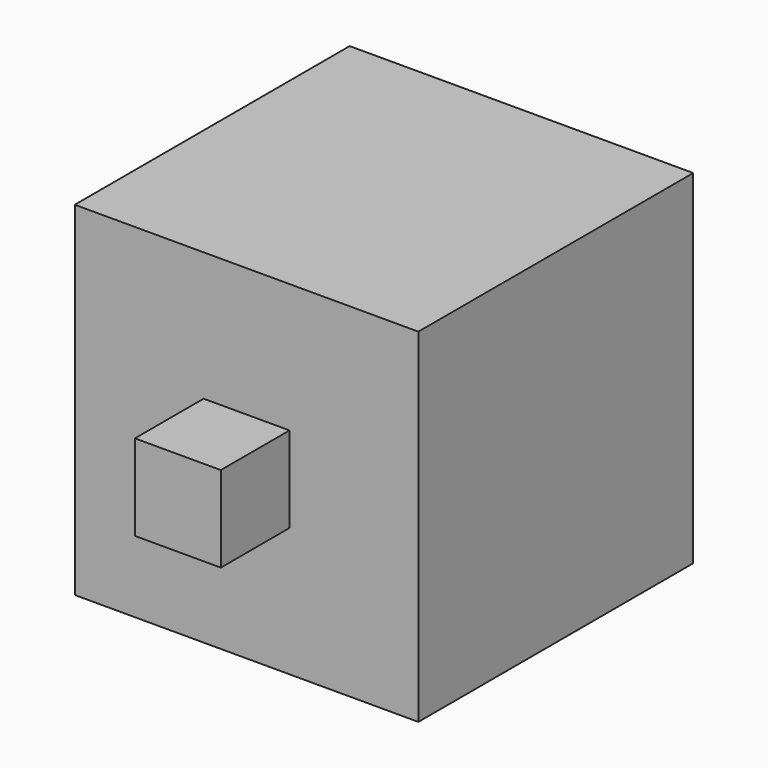
from build123d import *

# Parameters (mm, degrees)
F0_W     = 40
F0_H     = 40
F1_DEPTH = 20
F2_W     = 10
F2_H     = 10
F3_DEPTH = 10
F4_W     = 10
F4_H     = 10
F5_DEPTH = 10


with BuildPart() as f1:
    # F0 (on Front) → F1 (new body, symmetric)
    with BuildSketch(Plane.XZ):
        Rectangle(F0_W, F0_H)
    extrude(amount=F1_DEPTH, both=True)

    # F2 (on face) → F3 (join)
    with BuildSketch(Plane.XZ.offset(20)):
        Rectangle(F2_W, F2_H)
    extrude(amount=F3_DEPTH)

    # F4 (on face) → F5 (join)
    with BuildSketch(Plane(origin=(-20, 0, 0), x_dir=(0, -1, 0), z_dir=(-1, 0, 0))):
        Rectangle(F4_W, F4_H)
    extrude(amount=F5_DEPTH)


solid = f1.part
